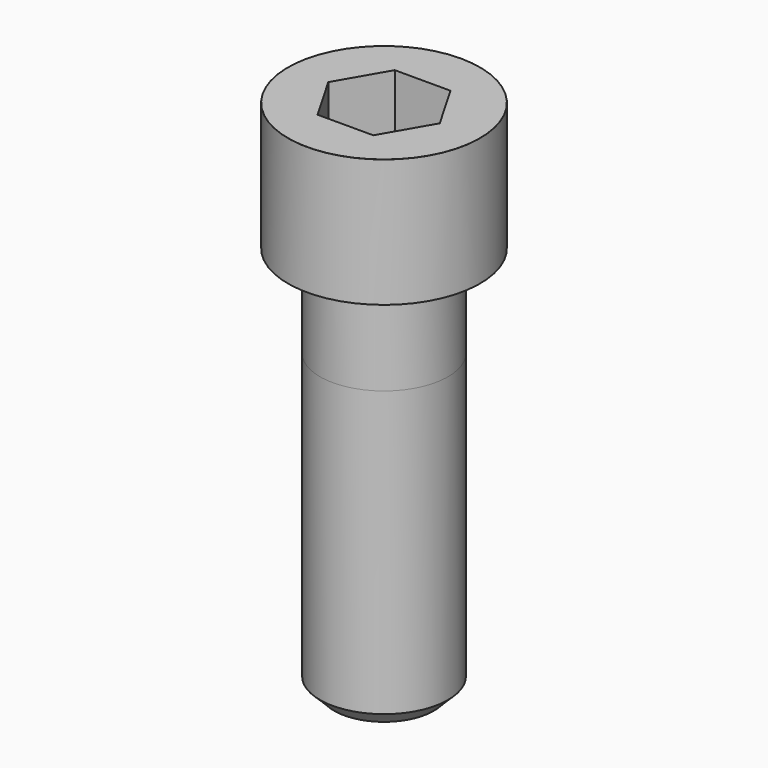
from build123d import *

# Parameters (mm, degrees)
POCKET_DEPTH = 27.15


with BuildPart() as part:
    # Sketch → Revolve (revolve)
    with BuildSketch(Plane.YZ):
        with BuildLine():
            Line((17.999, 0), (27, 0))
            Line((27, 0), (27, 35.97229))
            ThreePointArc((27, 35.97229), (26.991884, 35.991884), (26.97229, 36))
            Line((26.97229, 36), (0, 36))
            Line((0, -110), (0, 36))
            Line((14, -110), (0, -110))
            Line((18, -106), (14, -110))
            Line((18, -26), (18, -106))
            Line((17.999, 0), (18, -26))
        make_face()
    revolve(axis=Axis((0, 0, 0), (0, 0, 1)))

    # Sketch001 → Pocket (cut)
    with BuildSketch(Plane.XY.offset(36)):
        Polygon((15.67506, 0), (7.83753, 13.575), (-7.83753, 13.575), (-15.67506, 0), (-7.83753, -13.575), (7.83753, -13.575), align=None)
    extrude(amount=-POCKET_DEPTH, mode=Mode.SUBTRACT)


solid = part.part
